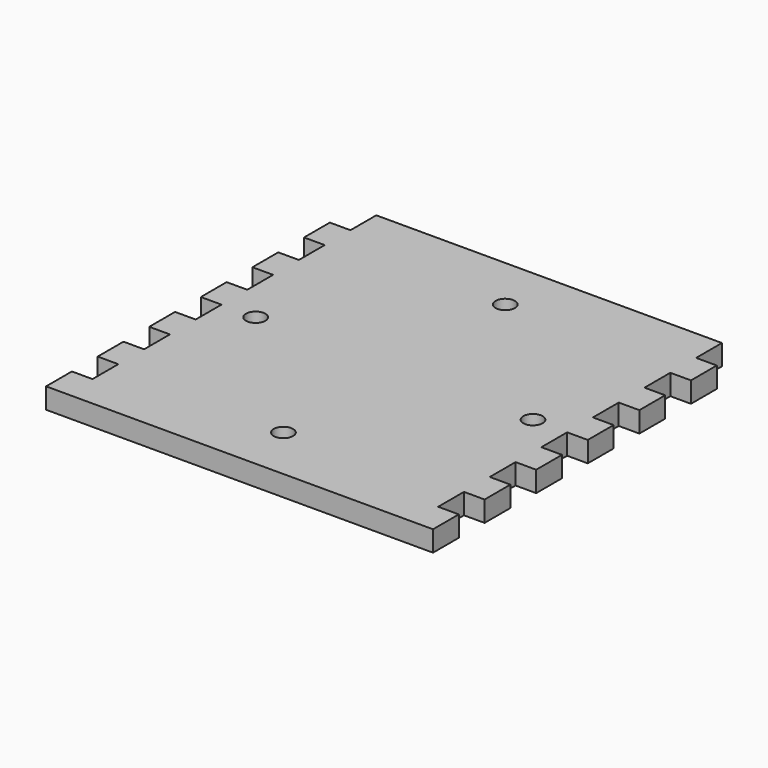
from build123d import *

# Parameters (mm, degrees)
F0_R     = 1.5
F1_DEPTH = 3.2


with BuildPart() as f1:
    # F0 (on Top) → F1 (new body)
    with BuildSketch(Plane.XY):
        Polygon((26.8, 25), (26.8, 30), (-26.8, 30), (-26.8, 25), (-30, 25), (-30, 20), (-26.8, 20), (-26.8, 15), (-30, 15), (-30, 10), (-26.8, 10), (-26.8, 5), (-30, 5), (-30, 0), (-26.8, 0), (-26.8, -5), (-30, -5), (-30, -10), (-26.8, -10), (-26.8, -15), (-30, -15), (-30, -20), (-26.8, -20), (-26.8, -25), (-30, -25), (-30, -30), (30, -30), (30, -25), (26.8, -25), (26.8, -20), (30, -20), (30, -15), (26.8, -15), (26.8, -10), (30, -10), (30, -5), (26.8, -5), (26.8, 0), (30, 0), (30, 5), (26.8, 5), (26.8, 10), (30, 10), (30, 15), (26.8, 15), (26.8, 20), (30, 20), (30, 25), align=None)
        with Locations((0, -21.5)):
            Circle(F0_R, mode=Mode.SUBTRACT)
        with Locations((-21.5, 0)):
            Circle(F0_R, mode=Mode.SUBTRACT)
        with Locations((21.5, 0)):
            Circle(F0_R, mode=Mode.SUBTRACT)
        with Locations((0, 21.5)):
            Circle(F0_R, mode=Mode.SUBTRACT)
    extrude(amount=F1_DEPTH)


solid = f1.part
